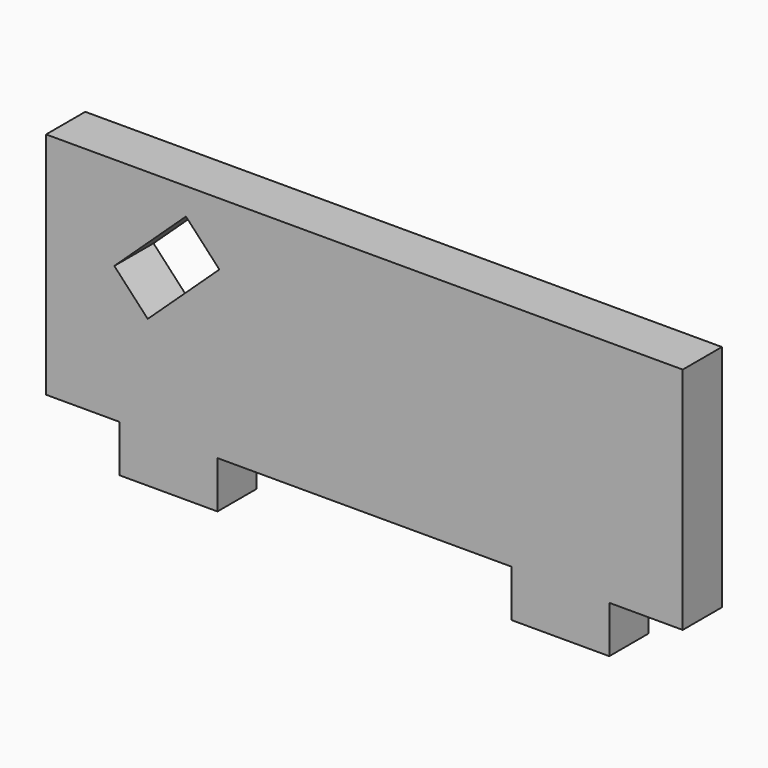
from build123d import *

# Parameters (mm, degrees)
F0_W     = 12.7
F0_H     = 6.096
F1_DEPTH = 6.35
F3_DEPTH = 25.4


with BuildPart() as f1:
    # F0 (on Front) → F1 (new body)
    with BuildSketch(Plane.XZ):
        with Locations((66.675, -3.048)):
            Rectangle(F0_W, F0_H)
        with Locations((15.875, -3.048)):
            Rectangle(F0_W, F0_H)
        Polygon((0, 29.718), (0, 0), (9.525, 0), (22.225, 0), (60.325, 0), (73.025, 0), (82.55, 0), (82.55, 29.718), align=None)
    extrude(amount=F1_DEPTH)

    # F2 (on face) → F3 (cut)
    with BuildSketch(Plane.XZ.offset(6.35)):
        Polygon((22.467588, 21.601406), (18.136898, 26.245502), (8.848706, 17.584123), (13.179396, 12.940027), align=None)
    extrude(amount=-F3_DEPTH, mode=Mode.SUBTRACT)


solid = f1.part
